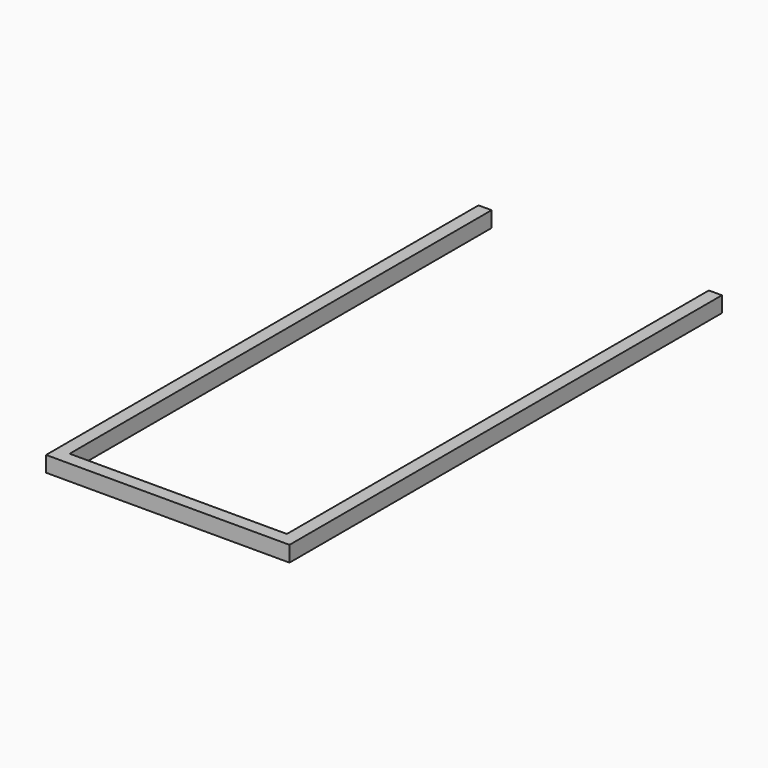
from build123d import *

# Parameters (mm, degrees)
F1_DEPTH = 30


with BuildPart() as f1:
    # F0 (on Top) → F1 (new body, symmetric)
    with BuildSketch(Plane.XY):
        Polygon((-930, 0), (0, 0), (0, 2065), (-50, 2065), (-50, 50), (-880, 50), (-880, 2065), (-930, 2065), align=None)
    extrude(amount=F1_DEPTH, both=True)


solid = f1.part
